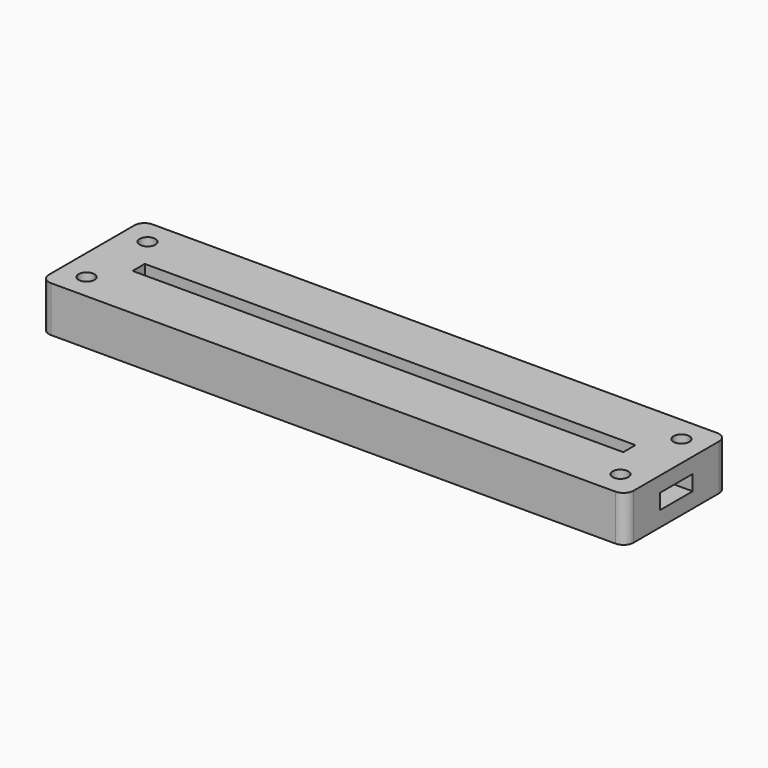
from build123d import *

# Parameters (mm, degrees)
SKETCH_W              = 115
SKETCH_H              = 25
PAD_DEPTH             = 3
PAD001_DEPTH          = 3
SKETCH002_W           = 115
SKETCH002_H           = 25
SKETCH002_W_2         = 96.5
SKETCH002_H_2         = 3
PAD002_DEPTH          = 3
SKETCH003_R           = 1.55
POCKET_DEPTH          = 245.060315
POLARPATTERN_COUNT    = 2
POLARPATTERN001_COUNT = 2
POLARPATTERN002_COUNT = 2
FILLET_R              = 2


with BuildPart() as part:
    # Sketch → Pad (new body)
    with BuildSketch(Plane.XY):
        Rectangle(SKETCH_W, SKETCH_H)
    extrude(amount=PAD_DEPTH)

    # Sketch001 (on Face6 of Pad) → Pad001 (join)
    with BuildSketch(Plane.XY.offset(3)):
        Polygon((-57.5, 12.5), (57.5, 12.5), (57.5, 4), (50, 4), (50, 5), (-50, 5), (-50, 4), (-57.5, 4), align=None)
        Polygon((-57.5, -12.5), (57.5, -12.5), (57.5, -4), (50, -4), (50, -5), (-50, -5), (-50, -4), (-57.5, -4), align=None)
    extrude(amount=PAD001_DEPTH)

    # Sketch002 (on Face12 of Pad001) → Pad002 (join)
    with BuildSketch(Plane.XY.offset(6)):
        Rectangle(SKETCH002_W, SKETCH002_H)
        Rectangle(SKETCH002_W_2, SKETCH002_H_2, mode=Mode.SUBTRACT)
    extrude(amount=PAD002_DEPTH)

    # Sketch003 (on Face26 of Pad002) → Pocket (cut, through all)
    with BuildSketch(Plane.XY.offset(9)):
        with Locations((-52.5, 7.5)):
            Circle(SKETCH003_R)
    pocket = extrude(amount=-POCKET_DEPTH, mode=Mode.SUBTRACT)

    # PolarPattern: Pocket ×2 about axis
    polarpattern_axis = Axis((0, 0, 0), (0, 1, 0))
    for i in range(1, POLARPATTERN_COUNT):
        add(pocket.rotate(polarpattern_axis, i * 360 / POLARPATTERN_COUNT), mode=Mode.SUBTRACT)

    # PolarPattern001: Pocket ×2 about axis
    polarpattern001_axis = Axis((0, 0, 0), (1, 0, 0))
    for i in range(1, POLARPATTERN001_COUNT):
        add(pocket.rotate(polarpattern001_axis, i * 360 / POLARPATTERN001_COUNT), mode=Mode.SUBTRACT)

    # PolarPattern002: Pocket ×2 about axis
    polarpattern002_axis = Axis((0, 0, 9), (0, 0, 1))
    for i in range(1, POLARPATTERN002_COUNT):
        add(pocket.rotate(polarpattern002_axis, i * 360 / POLARPATTERN002_COUNT), mode=Mode.SUBTRACT)

    # Fillet
    fillet_edges = [part.edges().sort_by_distance(p)[0] for p in [
        (57.5, 12.5, 7.5),
        (57.5, 12.5, 4.5),
        (57.5, 12.5, 1.5),
        (57.5, -12.5, 7.5),
        (-57.5, 12.5, 7.5),
        (-57.5, -12.5, 7.5),
    ]]
    fillet(fillet_edges, radius=FILLET_R)


solid = part.part
